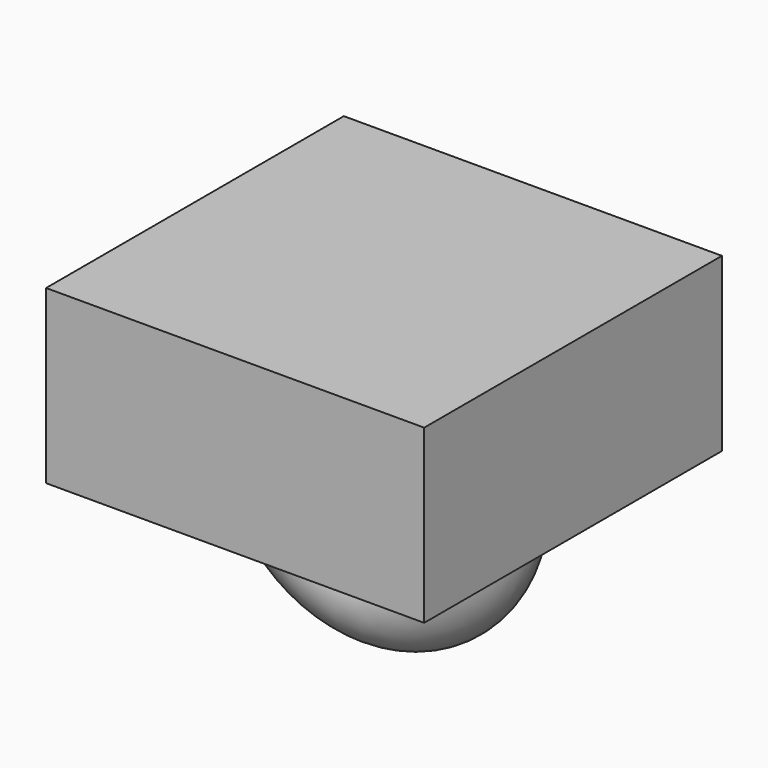
from build123d import *

# Parameters (mm, degrees)
F0_W     = 69.863096
F0_H     = 137.526572
F1_DEPTH = 63.5
F2_R     = 17.873178


with BuildPart() as f1:
    # F0 (on Top) → F1 (new body)
    with BuildSketch(Plane.XY):
        with Locations((34.931548, 0)):
            Rectangle(F0_W, F0_H)
        with Locations((-34.931548, 0)):
            Rectangle(F0_W, F0_H)
    extrude(amount=F1_DEPTH)

    # F2 (on face) → F3 (revolve)
    with BuildSketch(Plane.XY):
        with Locations((38.005151, 0)):
            Circle(F2_R)
    revolve(axis=Axis((0, 0, 0), (0, -1, 0)))


solid = f1.part
